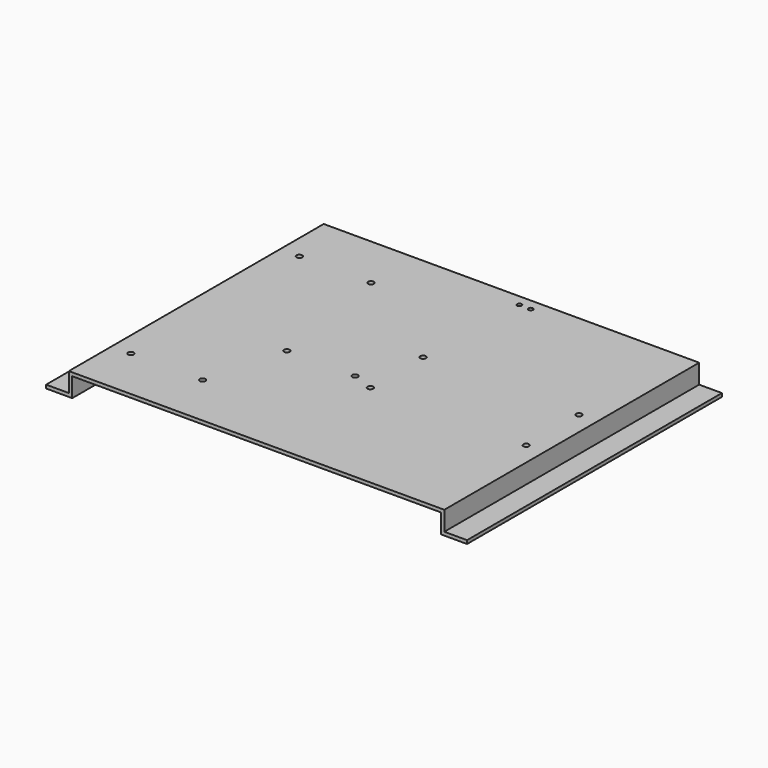
from build123d import *

# Parameters (mm, degrees)
F1_DEPTH = 280
F2_R     = 2.5
F2_R_2   = 2
F3_DEPTH = 25


with BuildPart() as f1:
    # F0 (on Front) → F1 (new body)
    with BuildSketch(Plane.XZ):
        Polygon((-162, -17), (-162, 0), (162, 0), (162, -17), (185, -17), (185, -14), (165, -14), (165, 3), (-165, 3), (-165, -14), (-185, -14), (-185, -17), align=None)
    extrude(amount=F1_DEPTH)

    # F2 (on face) → F3 (cut)
    with BuildSketch(Plane.XY.offset(3)):
        with Locations((-148, -48)):
            Circle(F2_R)
        with Locations((15, -10)):
            Circle(F2_R_2)
        with Locations((25, -10)):
            Circle(F2_R_2)
        with Locations((-85, -48)):
            Circle(F2_R)
        with Locations((-85, -233)):
            Circle(F2_R)
        with Locations((-148, -233)):
            Circle(F2_R)
        with Locations((149, -112)):
            Circle(F2_R)
        with Locations((12, -112)):
            Circle(F2_R)
        with Locations((12, -170)):
            Circle(F2_R)
        with Locations((149, -170)):
            Circle(F2_R)
        with Locations((-67, -163)):
            Circle(F2_R)
        with Locations((-7, -163)):
            Circle(F2_R)
    extrude(amount=-F3_DEPTH, mode=Mode.SUBTRACT)


solid = f1.part
